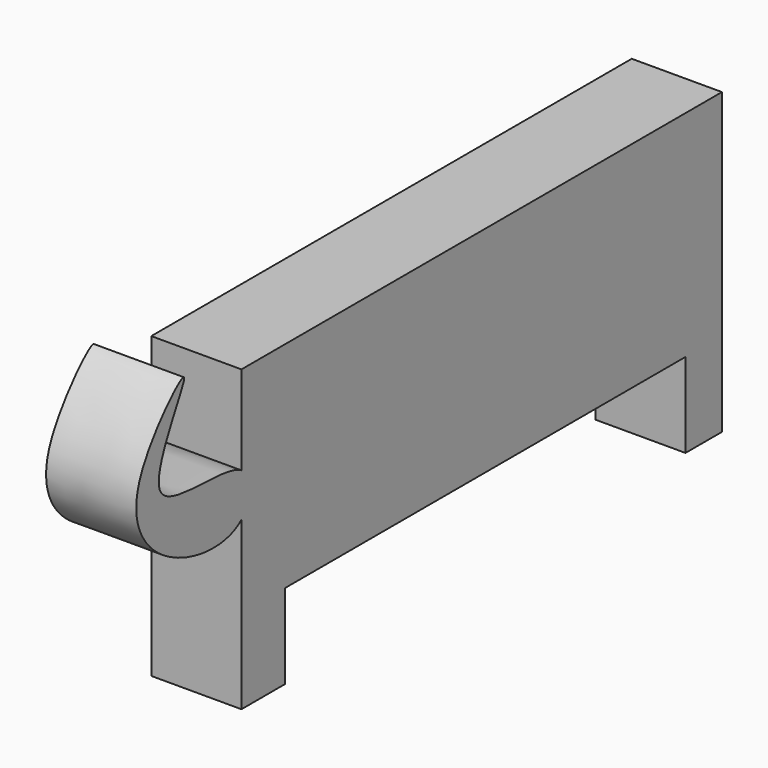
from build123d import *

# Parameters (mm, degrees)
F0_W     = 6.4130164683
F0_H     = 11.909885332
F0_W_2   = 7.6345391572
F1_DEPTH = 12.7


with BuildPart() as f1:
    # F0 (on Right) → F1 (new body)
    with BuildSketch(Plane.YZ):
        with BuildLine():
            Line((42.2953628004, -15.1163935661), (42.2953628004, 15.1163935661))
            Line((42.2953628004, 15.1163935661), (-42.2953628004, 15.1163935661))
            Line((-42.2953628004, 15.1163935661), (-42.2953628004, 2.5957443286))
            add(Edge.make_bspline(
                [(-42.2953628004, -3.511889372), (-40.4416549081, -1.8544950373), (-40.1003732194, 1.246125517), (-42.2953628004, 2.5957443286)],
                knots=[0.8798342537, 0.8798342537, 0.8798342537, 0.8798342537, 1, 1, 1, 1], degree=3))
            Line((-42.2953628004, -3.511889372), (-42.2953628004, -15.1163935661))
            Line((-42.2953628004, -15.1163935661), (-34.6608236432, -15.1163935661))
            Line((-34.6608236432, -15.1163935661), (35.8823463321, -15.1163935661))
            Line((35.8823463321, -15.1163935661), (42.2953628004, -15.1163935661))
        make_face()
        with Locations((39.0888545662, -21.0713362321)):
            Rectangle(F0_W, F0_H)
        with BuildLine():
            add(Edge.make_bspline(
                [(-42.2953628004, -3.511889372), (-40.4416549081, -1.8544950373), (-40.1003732194, 1.246125517), (-42.2953628004, 2.5957443286)],
                knots=[0.8798342537, 0.8798342537, 0.8798342537, 0.8798342537, 1, 1, 1, 1], degree=3))
            Line((-42.2953628004, 2.5957443286), (-42.2953628004, -3.511889372))
        make_face()
        with BuildLine():
            Line((-42.2953628004, -3.511889372), (-42.2953628004, 2.5957443286))
            add(Edge.make_bspline(
                [(-42.2953628004, 2.5957443286), (-45.7053786947, 4.6924383807), (-64.167494837, 0.5678882082), (-46.4379215274, 25.0747675786), (-64.6535863398, 7.5517885068), (-56.6246733478, -4.6629831789), (-44.983162121, -5.9150422017), (-42.2953628004, -3.511889372)],
                knots=[0, 0, 0, 0, 0.1866829384, 0.3616040583, 0.5341393201, 0.7055989211, 0.8798342537, 0.8798342537, 0.8798342537, 0.8798342537], degree=3))
        make_face()
        with Locations((-38.4780932218, -21.0713362321)):
            Rectangle(F0_W_2, F0_H)
    extrude(amount=F1_DEPTH)


solid = f1.part
